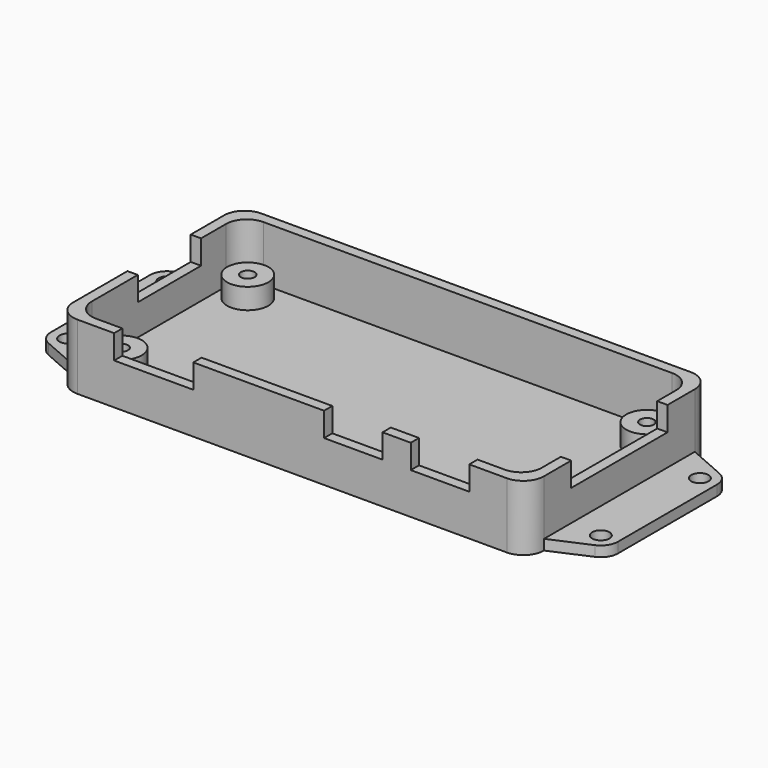
from build123d import *

# Parameters (mm, degrees)
F0_R     = 3
F0_W     = 19
F0_H     = 1.5
F0_R_2   = 1
F0_W_2   = 1.5
F0_H_2   = 17.5
F0_H_3   = 11.5
F0_W_3   = 11.5
F0_W_4   = 8.5
F0_W_5   = 4.1
F1_DEPTH = 1.5
F2_DEPTH = 3
F3_DEPTH = 8
F4_DEPTH = 4.5
F5_R     = 1.25
F6_DEPTH = 1.5


with BuildPart() as f1:
    # F0 (on Top) → F1 (new body)
    with BuildSketch(Plane.XY):
        with BuildLine():
            Line((29.7, 15.2), (-29.7, 15.2))
            ThreePointArc((-29.7, 15.2), (-31.8213203436, 14.3213203436), (-32.7, 12.2))
            Line((-32.7, 12.2), (-32.7, 7.65))
            Line((-32.7, 7.65), (-32.7, -3.85))
            Line((-32.7, -3.85), (-32.7, -12.2))
            ThreePointArc((-32.7, -12.2), (-31.8213203436, -14.3213203436), (-29.7, -15.2))
            Line((-29.7, -15.2), (-25.85, -15.2))
            Line((-25.85, -15.2), (-14.35, -15.2))
            Line((-14.35, -15.2), (4.65, -15.2))
            Line((4.65, -15.2), (13.15, -15.2))
            Line((13.15, -15.2), (17.25, -15.2))
            Line((17.25, -15.2), (25.75, -15.2))
            Line((25.75, -15.2), (29.7, -15.2))
            ThreePointArc((29.7, -15.2), (31.8213203436, -14.3213203436), (32.7, -12.2))
            Line((32.7, -12.2), (32.7, -8.75))
            Line((32.7, -8.75), (32.7, 8.75))
            Line((32.7, 8.75), (32.7, 12.2))
            ThreePointArc((32.7, 12.2), (31.8213203436, 14.3213203436), (29.7, 15.2))
        make_face()
        with Locations((-29, -11.5)):
            Circle(F0_R, mode=Mode.SUBTRACT)
        with Locations((29, -11.5)):
            Circle(F0_R, mode=Mode.SUBTRACT)
        with Locations((-29, 11.5)):
            Circle(F0_R, mode=Mode.SUBTRACT)
        with Locations((29, 11.5)):
            Circle(F0_R, mode=Mode.SUBTRACT)
        with BuildLine():
            ThreePointArc((-32.7, 12.2), (-31.8213203436, 14.3213203436), (-29.7, 15.2))
            Line((-29.7, 15.2), (29.7, 15.2))
            ThreePointArc((29.7, 15.2), (31.8213203436, 14.3213203436), (32.7, 12.2))
            Line((32.7, 12.2), (32.7, 8.75))
            Line((32.7, 8.75), (34.2, 8.75))
            Line((34.2, 8.75), (34.2, 13.7))
            ThreePointArc((34.2, 13.7), (33.3213203436, 15.8213203436), (31.2, 16.7))
            Line((31.2, 16.7), (-31.2, 16.7))
            ThreePointArc((-31.2, 16.7), (-33.3213203436, 15.8213203436), (-34.2, 13.7))
            Line((-34.2, 13.7), (-34.2, 7.65))
            Line((-34.2, 7.65), (-32.7, 7.65))
            Line((-32.7, 7.65), (-32.7, 12.2))
        make_face()
        with BuildLine():
            Line((-32.7, -12.2), (-32.7, -3.85))
            Line((-32.7, -3.85), (-34.2, -3.85))
            Line((-34.2, -3.85), (-34.2, -13.7))
            ThreePointArc((-34.2, -13.7), (-33.3213203436, -15.8213203436), (-31.2, -16.7))
            Line((-31.2, -16.7), (-25.85, -16.7))
            Line((-25.85, -16.7), (-25.85, -15.2))
            Line((-25.85, -15.2), (-29.7, -15.2))
            ThreePointArc((-29.7, -15.2), (-31.8213203436, -14.3213203436), (-32.7, -12.2))
        make_face()
        with Locations((-4.85, -15.95)):
            Rectangle(F0_W, F0_H)
        with Locations((-29, -11.5)):
            Circle(F0_R)
        with Locations((-29, -11.5)):
            Circle(F0_R_2, mode=Mode.SUBTRACT)
        with Locations((-29, 11.5)):
            Circle(F0_R)
        with Locations((-29, 11.5)):
            Circle(F0_R_2, mode=Mode.SUBTRACT)
        with Locations((29, -11.5)):
            Circle(F0_R)
        with Locations((29, -11.5)):
            Circle(F0_R_2, mode=Mode.SUBTRACT)
        with Locations((29, 11.5)):
            Circle(F0_R)
        with Locations((29, 11.5)):
            Circle(F0_R_2, mode=Mode.SUBTRACT)
        with Locations((33.45, 0)):
            Rectangle(F0_W_2, F0_H_2)
        with BuildLine():
            Line((34.2, -8.75), (32.7, -8.75))
            Line((32.7, -8.75), (32.7, -12.2))
            ThreePointArc((32.7, -12.2), (31.8213203436, -14.3213203436), (29.7, -15.2))
            Line((29.7, -15.2), (25.75, -15.2))
            Line((25.75, -15.2), (25.75, -16.7))
            Line((25.75, -16.7), (31.2, -16.7))
            ThreePointArc((31.2, -16.7), (33.3213203436, -15.8213203436), (34.2, -13.7))
            Line((34.2, -13.7), (34.2, -8.75))
        make_face()
        with Locations((-33.45, 1.9)):
            Rectangle(F0_W_2, F0_H_3)
        with Locations((-20.1, -15.95)):
            Rectangle(F0_W_3, F0_H)
        with Locations((21.5, -15.95)):
            Rectangle(F0_W_4, F0_H)
        with Locations((8.9, -15.95)):
            Rectangle(F0_W_4, F0_H)
        with Locations((15.2, -15.95)):
            Rectangle(F0_W_5, F0_H)
        with Locations((-29, -11.5)):
            Circle(F0_R_2)
        with Locations((-29, 11.5)):
            Circle(F0_R_2)
        with Locations((29, -11.5)):
            Circle(F0_R_2)
        with Locations((29, 11.5)):
            Circle(F0_R_2)
    extrude(amount=-F1_DEPTH)

    # F0 (on Top) → F2 (join)
    with BuildSketch(Plane.XY):
        with Locations((-29, 11.5)):
            Circle(F0_R)
        with Locations((-29, 11.5)):
            Circle(F0_R_2, mode=Mode.SUBTRACT)
        with Locations((-29, -11.5)):
            Circle(F0_R)
        with Locations((-29, -11.5)):
            Circle(F0_R_2, mode=Mode.SUBTRACT)
        with Locations((29, 11.5)):
            Circle(F0_R)
        with Locations((29, 11.5)):
            Circle(F0_R_2, mode=Mode.SUBTRACT)
        with Locations((29, -11.5)):
            Circle(F0_R)
        with Locations((29, -11.5)):
            Circle(F0_R_2, mode=Mode.SUBTRACT)
    extrude(amount=F2_DEPTH)

    # F0 (on Top) → F3 (join)
    with BuildSketch(Plane.XY):
        with BuildLine():
            Line((-32.7, -12.2), (-32.7, -3.85))
            Line((-32.7, -3.85), (-34.2, -3.85))
            Line((-34.2, -3.85), (-34.2, -13.7))
            ThreePointArc((-34.2, -13.7), (-33.3213203436, -15.8213203436), (-31.2, -16.7))
            Line((-31.2, -16.7), (-25.85, -16.7))
            Line((-25.85, -16.7), (-25.85, -15.2))
            Line((-25.85, -15.2), (-29.7, -15.2))
            ThreePointArc((-29.7, -15.2), (-31.8213203436, -14.3213203436), (-32.7, -12.2))
        make_face()
        with BuildLine():
            ThreePointArc((-32.7, 12.2), (-31.8213203436, 14.3213203436), (-29.7, 15.2))
            Line((-29.7, 15.2), (29.7, 15.2))
            ThreePointArc((29.7, 15.2), (31.8213203436, 14.3213203436), (32.7, 12.2))
            Line((32.7, 12.2), (32.7, 8.75))
            Line((32.7, 8.75), (34.2, 8.75))
            Line((34.2, 8.75), (34.2, 13.7))
            ThreePointArc((34.2, 13.7), (33.3213203436, 15.8213203436), (31.2, 16.7))
            Line((31.2, 16.7), (-31.2, 16.7))
            ThreePointArc((-31.2, 16.7), (-33.3213203436, 15.8213203436), (-34.2, 13.7))
            Line((-34.2, 13.7), (-34.2, 7.65))
            Line((-34.2, 7.65), (-32.7, 7.65))
            Line((-32.7, 7.65), (-32.7, 12.2))
        make_face()
        with Locations((-4.85, -15.95)):
            Rectangle(F0_W, F0_H)
        with Locations((15.2, -15.95)):
            Rectangle(F0_W_5, F0_H)
        with BuildLine():
            Line((34.2, -8.75), (32.7, -8.75))
            Line((32.7, -8.75), (32.7, -12.2))
            ThreePointArc((32.7, -12.2), (31.8213203436, -14.3213203436), (29.7, -15.2))
            Line((29.7, -15.2), (25.75, -15.2))
            Line((25.75, -15.2), (25.75, -16.7))
            Line((25.75, -16.7), (31.2, -16.7))
            ThreePointArc((31.2, -16.7), (33.3213203436, -15.8213203436), (34.2, -13.7))
            Line((34.2, -13.7), (34.2, -8.75))
        make_face()
    extrude(amount=F3_DEPTH)

    # F0 (on Top) → F4 (join)
    with BuildSketch(Plane.XY):
        with Locations((-33.45, 1.9)):
            Rectangle(F0_W_2, F0_H_3)
        with Locations((-20.1, -15.95)):
            Rectangle(F0_W_3, F0_H)
        with Locations((8.9, -15.95)):
            Rectangle(F0_W_4, F0_H)
        with Locations((21.5, -15.95)):
            Rectangle(F0_W_4, F0_H)
        with Locations((33.45, 0)):
            Rectangle(F0_W_2, F0_H_2)
    extrude(amount=F4_DEPTH)

    # F5 (on face) → F6 (join)
    with BuildSketch(Plane.XY):
        with BuildLine():
            Line((39.7029067074, 11.2900170603), (34.2, 13.7))
            Line((34.2, 13.7), (34.2, -13.7))
            Line((34.2, -13.7), (39.7029067074, -11.2900170603))
            ThreePointArc((39.7029067074, -11.2900170603), (36.607481569, -7.6320209739), (41.2, -9))
            Line((41.2, -9), (41.2, 9))
            ThreePointArc((41.2, 9), (36.607481569, 7.6320209739), (39.7029067074, 11.2900170603))
        make_face()
        with BuildLine():
            ThreePointArc((41.2, -9), (36.607481569, -7.6320209739), (39.7029067074, -11.2900170603))
            ThreePointArc((39.7029067074, -11.2900170603), (40.792518431, -10.3679790261), (41.2, -9))
        make_face()
        with Locations((38.7, -9)):
            Circle(F5_R, mode=Mode.SUBTRACT)
        with BuildLine():
            ThreePointArc((41.2, 9), (40.792518431, 10.3679790261), (39.7029067074, 11.2900170603))
            ThreePointArc((39.7029067074, 11.2900170603), (36.607481569, 7.6320209739), (41.2, 9))
        make_face()
        with Locations((38.7, 9)):
            Circle(F5_R, mode=Mode.SUBTRACT)
        with BuildLine():
            Line((-34.2, -13.7), (-34.2, 13.7))
            Line((-34.2, 13.7), (-39.7029067074, 11.2900170603))
            ThreePointArc((-39.7029067074, 11.2900170603), (-37.3320209739, 11.092518431), (-36.2, 9))
            ThreePointArc((-36.2, 9), (-38.7, 6.5), (-41.2, 9))
            Line((-41.2, 9), (-41.2, -9))
            ThreePointArc((-41.2, -9), (-38.7, -6.5), (-36.2, -9))
            ThreePointArc((-36.2, -9), (-37.3320209739, -11.092518431), (-39.7029067074, -11.2900170603))
            Line((-39.7029067074, -11.2900170603), (-34.2, -13.7))
        make_face()
        with BuildLine():
            ThreePointArc((-36.2, 9), (-37.3320209739, 11.092518431), (-39.7029067074, 11.2900170603))
            ThreePointArc((-39.7029067074, 11.2900170603), (-40.792518431, 10.3679790261), (-41.2, 9))
            ThreePointArc((-41.2, 9), (-38.7, 6.5), (-36.2, 9))
        make_face()
        with Locations((-38.7, 9)):
            Circle(F5_R, mode=Mode.SUBTRACT)
        with BuildLine():
            ThreePointArc((-41.2, -9), (-40.792518431, -10.3679790261), (-39.7029067074, -11.2900170603))
            ThreePointArc((-39.7029067074, -11.2900170603), (-37.3320209739, -11.092518431), (-36.2, -9))
            ThreePointArc((-36.2, -9), (-38.7, -6.5), (-41.2, -9))
        make_face()
        with Locations((-38.7, -9)):
            Circle(F5_R, mode=Mode.SUBTRACT)
    extrude(amount=-F6_DEPTH)


solid = f1.part
